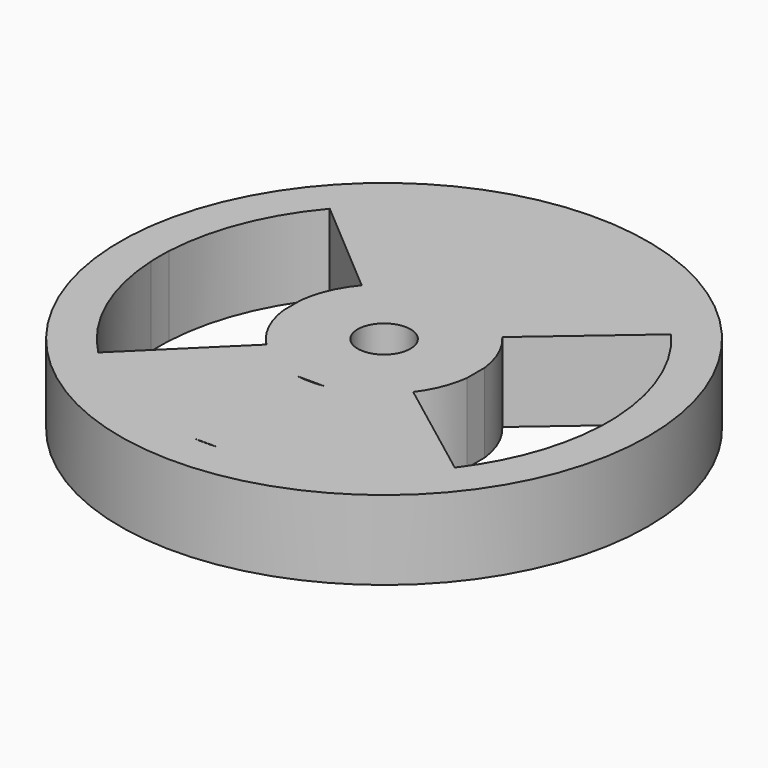
from build123d import *

# Parameters (mm, degrees)
F0_R     = 127
F0_R_2   = 12.7
F1_DEPTH = 19.05


with BuildPart() as f1:
    # F0 (on Top) → F1 (new body, symmetric)
    with BuildSketch(Plane.XY):
        Circle(F0_R)
        with BuildLine():
            ThreePointArc((-82.161109, 70.019674), (-48.159661, 96.61185), (-6.457917, 107.75666))
            Line((-6.457917, 107.75666), (6.457917, 107.75666))
            ThreePointArc((6.457917, 107.75666), (47.964828, 96.708726), (81.878172, 70.350319))
            ThreePointArc((81.878172, 70.350319), (100.263633, 40.00508), (107.81793, 5.338218))
            ThreePointArc((107.81793, 5.338218), (107.95, 0), (107.81793, -5.338218))
            ThreePointArc((107.81793, -5.338218), (101.460657, -36.86377), (86.098285, -65.117492))
            ThreePointArc((86.098285, -65.117492), (50.952795, -95.168352), (6.457917, -107.75666))
            ThreePointArc((6.457917, -107.75666), (0, -107.95), (-6.457917, -107.75666))
            ThreePointArc((-6.457917, -107.75666), (-44.708732, -98.256459), (-76.999847, -75.658616))
            ThreePointArc((-76.999847, -75.658616), (-98.871847, -43.330824), (-107.81793, -5.338218))
            ThreePointArc((-107.81793, -5.338218), (-107.95, 0), (-107.81793, 5.338218))
            ThreePointArc((-107.81793, 5.338218), (-100.344065, 39.802903), (-82.161109, 70.019674))
        make_face(mode=Mode.SUBTRACT)
        with BuildLine():
            ThreePointArc((-6.457917, 43.978379), (-21.521062, 38.892755), (-33.831045, 28.83163))
            ThreePointArc((-33.831045, 28.83163), (-40.711172, 17.843849), (-44.128289, 5.338218))
            Line((-44.128289, 5.338218), (-44.128289, -5.338218))
            ThreePointArc((-44.128289, -5.338218), (-40.053849, -19.274119), (-31.705819, -31.153548))
            ThreePointArc((-31.705819, -31.153548), (-20.130494, -39.630364), (-6.457917, -43.978379))
            Line((-6.457917, -43.978379), (6.457917, -43.978379))
            ThreePointArc((6.457917, -43.978379), (22.644581, -38.249516), (35.452235, -26.813085))
            ThreePointArc((35.452235, -26.813085), (41.213559, -16.650677), (44.128289, -5.338218))
            Line((44.128289, -5.338218), (44.128289, 5.338218))
            ThreePointArc((44.128289, 5.338218), (40.675123, 17.925872), (33.714542, 28.967779))
            ThreePointArc((33.714542, 28.967779), (21.442625, 38.936055), (6.457917, 43.978379))
            Line((6.457917, 43.978379), (-6.457917, 43.978379))
        make_face()
        Circle(F0_R_2, mode=Mode.SUBTRACT)
        with BuildLine():
            Line((6.457917, 107.75666), (-6.457917, 107.75666))
            ThreePointArc((-6.457917, 107.75666), (-48.159661, 96.61185), (-82.161109, 70.019674))
            Line((-82.161109, 70.019674), (-33.831045, 28.83163))
            ThreePointArc((-33.831045, 28.83163), (-21.521062, 38.892755), (-6.457917, 43.978379))
            Line((-6.457917, 43.978379), (6.457917, 43.978379))
            ThreePointArc((6.457917, 43.978379), (21.442625, 38.936055), (33.714542, 28.967779))
            Line((33.714542, 28.967779), (81.878172, 70.350319))
            ThreePointArc((81.878172, 70.350319), (47.964828, 96.708726), (6.457917, 107.75666))
        make_face()
        with BuildLine():
            Line((-31.705819, -31.153548), (-76.999847, -75.658616))
            ThreePointArc((-76.999847, -75.658616), (-44.708732, -98.256459), (-6.457917, -107.75666))
            Line((-6.457917, -107.75666), (6.457917, -107.75666))
            ThreePointArc((6.457917, -107.75666), (50.952795, -95.168352), (86.098285, -65.117492))
            Line((86.098285, -65.117492), (35.452235, -26.813085))
            ThreePointArc((35.452235, -26.813085), (22.644581, -38.249516), (6.457917, -43.978379))
            ThreePointArc((6.457917, -43.978379), (0, -44.45), (-6.457917, -43.978379))
            ThreePointArc((-6.457917, -43.978379), (-20.130494, -39.630364), (-31.705819, -31.153548))
        make_face()
    extrude(amount=F1_DEPTH, both=True)


solid = f1.part
